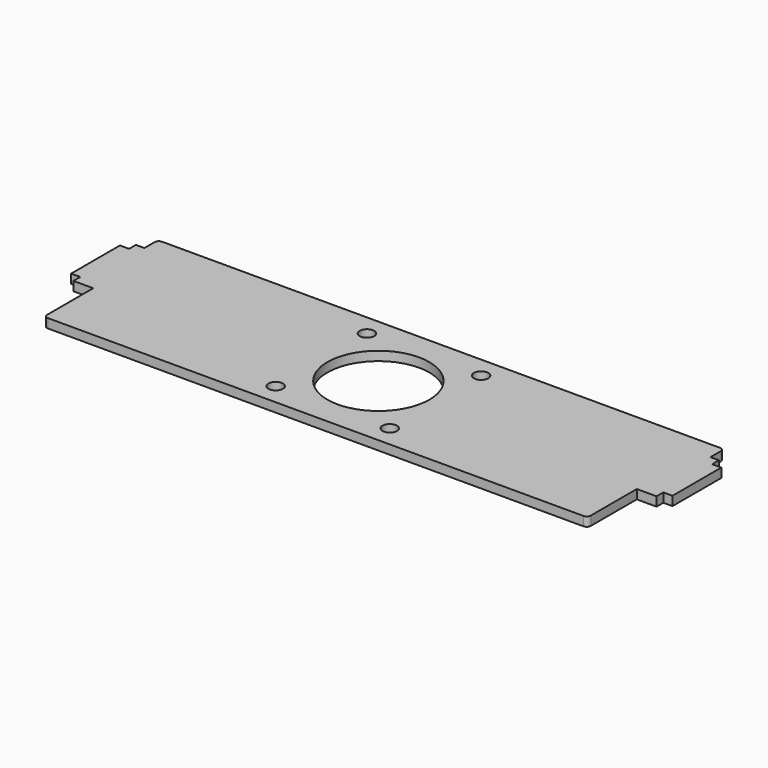
from build123d import *

# Parameters (mm, degrees)
F0_R     = 1.35255
F0_R_2   = 9.525
F1_DEPTH = 1.70942
F2_R     = 0.762


with BuildPart() as f1:
    # F0 (on Top) → F1 (new body)
    with BuildSketch(Plane.XY):
        Polygon((1.70942, 0), (0, 0), (0, -11.406868), (1.70942, -11.406868), (1.70942, -12.994368), (5.40258, -12.994368), (5.40258, -24.503108), (107.00258, -24.503108), (107.00258, -12.994368), (110.69574, -12.994368), (110.69574, -11.406868), (112.40516, -11.406868), (112.40516, 0), (110.69574, 0), (110.69574, 1.5875), (109.10824, 1.5875), (109.10824, 4.7625), (3.29692, 4.7625), (3.29692, 1.5875), (1.70942, 1.5875), align=None)
        with Locations((45.538526, -20.534358)):
            Circle(F0_R, mode=Mode.SUBTRACT)
        with Locations((66.866634, -20.534358)):
            Circle(F0_R, mode=Mode.SUBTRACT)
        with Locations((56.20258, -9.870304)):
            Circle(F0_R_2, mode=Mode.SUBTRACT)
        with Locations((45.538526, 0.79375)):
            Circle(F0_R, mode=Mode.SUBTRACT)
        with Locations((66.866634, 0.79375)):
            Circle(F0_R, mode=Mode.SUBTRACT)
    extrude(amount=F1_DEPTH)

    # F2
    f2_edges = [f1.edges().sort_by_distance(p)[0] for p in [
        (3.29692, 4.7625, 0.85471),
        (5.40258, -24.503108, 0.85471),
        (107.00258, -24.503108, 0.85471),
        (109.10824, 4.7625, 0.85471),
    ]]
    fillet(f2_edges, radius=F2_R)


solid = f1.part
